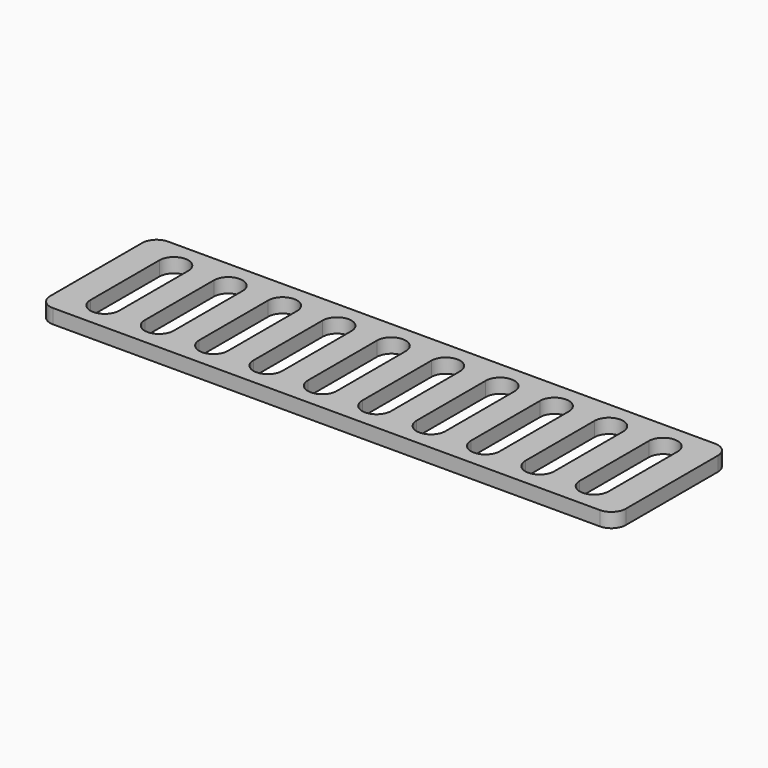
from build123d import *

# Parameters (mm, degrees)
PAD_DEPTH           = 5
POCKET_DEPTH        = 5
LINEARPATTERN_COUNT = 10
LINEARPATTERN_PITCH = 18.888889


with BuildPart() as part:
    # Sketch → Pad (new body)
    with BuildSketch(Plane.XY):
        with BuildLine():
            ThreePointArc((0, 5), (1.464466, 1.464466), (5, 0))
            Line((195, 0), (5, 0))
            ThreePointArc((195, 0), (198.535534, 1.464466), (200, 5))
            Line((200, 45), (200, 5))
            ThreePointArc((200, 45), (198.535534, 48.535534), (195, 50))
            Line((5, 50), (195, 50))
            ThreePointArc((5, 50), (1.464466, 48.535534), (0, 45))
            Line((0, 5), (0, 45))
        make_face()
    extrude(amount=PAD_DEPTH)

    # Sketch001 (on Face10 of Pad) → Pocket (cut)
    with BuildSketch(Plane.XY.offset(5)):
        with BuildLine():
            ThreePointArc((10, 10), (15, 5), (20, 10))
            Line((20, 10), (20, 40))
            ThreePointArc((20, 40), (15, 45), (10, 40))
            Line((10, 40), (10, 10))
        make_face()
    pocket = extrude(amount=-POCKET_DEPTH, mode=Mode.SUBTRACT)

    # LinearPattern: Pocket ×10
    with Locations(*[(i * LINEARPATTERN_PITCH, 0, 0) for i in range(1, LINEARPATTERN_COUNT)]):
        add(pocket, mode=Mode.SUBTRACT)


solid = part.part
